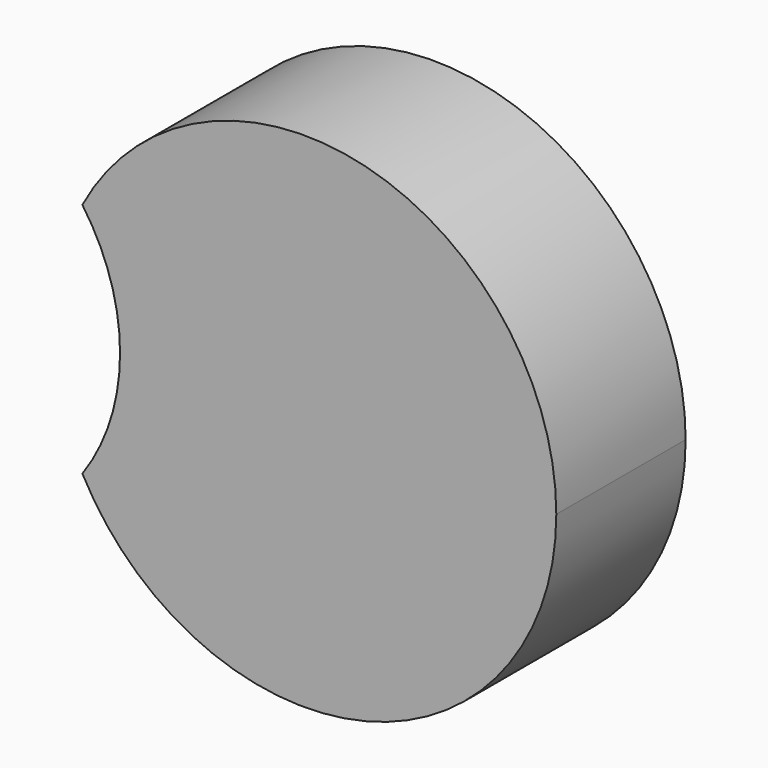
from build123d import *

# Parameters (mm, degrees)
F1_DEPTH = 25
F2_DEPTH = 25


with BuildPart() as f1:
    # F0 (on Front) → F1 (new body)
    with BuildSketch(Plane.XZ):
        with BuildLine():
            ThreePointArc((-14.762832, -18.290401), (-19.327975, 0), (-14.762832, 18.290401))
            ThreePointArc((-14.762832, 18.290401), (-72.201915, 0), (-14.762832, -18.290401))
        make_face()
        with BuildLine():
            ThreePointArc((-14.762832, -18.290401), (-10.429805, -9.597663), (-8.938596, 0))
            ThreePointArc((-8.938596, 0), (-10.429805, 9.597663), (-14.762832, 18.290401))
            ThreePointArc((-14.762832, 18.290401), (-19.327975, 0), (-14.762832, -18.290401))
        make_face()
    extrude(amount=F1_DEPTH)


with BuildPart() as f2:
    # F0 (on Front) → F2 (new body)
    with BuildSketch(Plane.XZ):
        with BuildLine():
            ThreePointArc((-14.762832, 18.290401), (-10.429805, 9.597663), (-8.938596, 0))
            ThreePointArc((-8.938596, 0), (-10.429805, -9.597663), (-14.762832, -18.290401))
            ThreePointArc((-14.762832, -18.290401), (29.020914, -37.764609), (58.518297, 0))
            ThreePointArc((58.518297, 0), (29.020914, 37.764609), (-14.762832, 18.290401))
        make_face()
        with BuildLine():
            ThreePointArc((-14.762832, -18.290401), (-10.429805, -9.597663), (-8.938596, 0))
            ThreePointArc((-8.938596, 0), (-10.429805, 9.597663), (-14.762832, 18.290401))
            ThreePointArc((-14.762832, 18.290401), (-19.327975, 0), (-14.762832, -18.290401))
        make_face()
    extrude(amount=F2_DEPTH)

    # F3: cut F1
    add(f1.part, mode=Mode.SUBTRACT)


solid = f2.part
